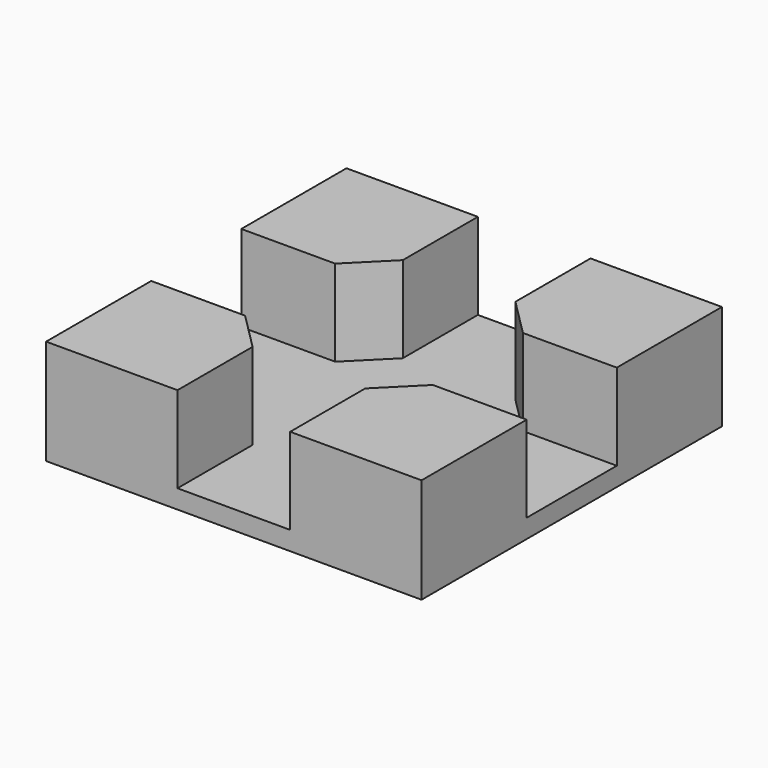
from build123d import *

# Parameters (mm, degrees)
BOX002_W     = 20
BOX002_H     = 6
BOX002_DEPTH = 10
BOX001_W     = 6
BOX001_H     = 20
BOX001_DEPTH = 10
BOX_W        = 20
BOX_H        = 20
BOX_DEPTH    = 4.6
CHAMFER_SIZE = 2
BOX003_W     = 20
BOX003_H     = 20
BOX003_DEPTH = 1


with BuildPart() as cube002:
    # Box002 → Box002 (new body)
    with BuildSketch(Plane(origin=(0, 7, 0), x_dir=(1, 0, 0), z_dir=(0, 0, 1))):
        with Locations((10, 3)):
            Rectangle(BOX002_W, BOX002_H)
    extrude(amount=BOX002_DEPTH)


with BuildPart() as fusion:
    # Box001 → Box001 (new body)
    with BuildSketch(Plane(origin=(7, 0, 0), x_dir=(1, 0, 0), z_dir=(0, 0, 1))):
        with Locations((3, 10)):
            Rectangle(BOX001_W, BOX001_H)
    extrude(amount=BOX001_DEPTH)

    # Fusion: union Cube002
    add(cube002.part)


with BuildPart() as base_button:
    # Box → Box (new body)
    with BuildSketch(Plane.XY):
        with Locations((10, 10)):
            Rectangle(BOX_W, BOX_H)
    extrude(amount=BOX_DEPTH)

    # Cut: cut Fusion
    add(fusion.part, mode=Mode.SUBTRACT)

    # Chamfer
    chamfer_edges = [base_button.edges().sort_by_distance(p)[0] for p in [
        (7, 7, 2.3),
        (7, 13, 2.3),
        (13, 13, 2.3),
        (13, 7, 2.3),
    ]]
    chamfer(chamfer_edges, length=CHAMFER_SIZE)


with BuildPart() as base_button_1:
    # Chamfer placement: moved
    add(base_button.part.moved(Location((0, 0, 1))))


with BuildPart() as single_pad_base:
    # Box003 → Box003 (new body)
    with BuildSketch(Plane.XY):
        with Locations((10, 10)):
            Rectangle(BOX003_W, BOX003_H)
    extrude(amount=BOX003_DEPTH)

    # Fusion001: union base_button
    add(base_button_1.part)


solid = single_pad_base.part
